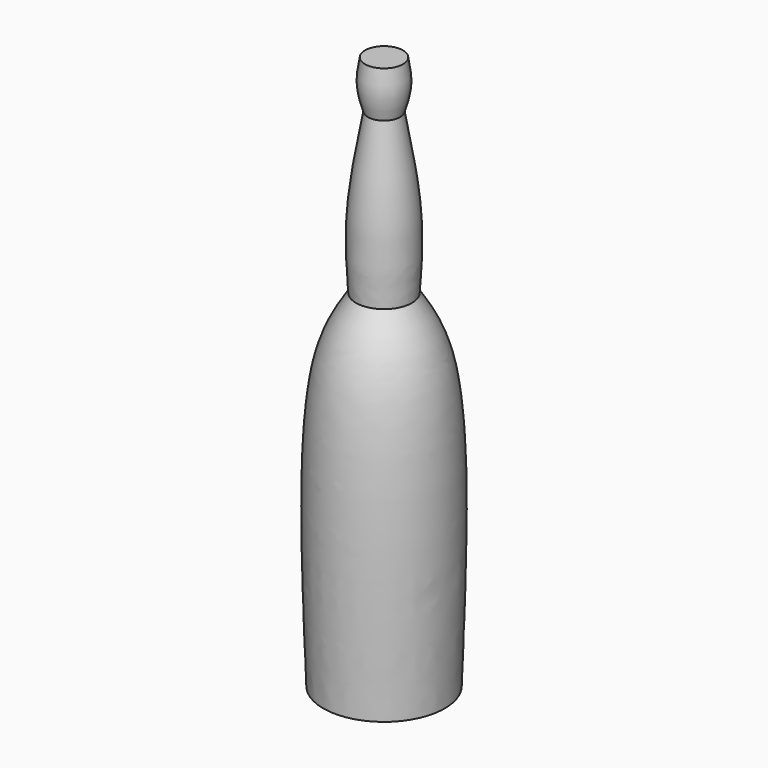
from build123d import *


with BuildPart() as f1:
    # F0 (on Front) → F1 (revolve)
    with BuildSketch(Plane.XZ):
        with BuildLine():
            Line((0, 80.0163449237), (-5.6374586279, 80.0163449237))
            add(Edge.make_bspline(
                [(-5.6374586279, 80.0163449237), (-6.0733098722, 77.6736170043), (-6.9455218679, 72.9421484634), (-5.5259929545, 68.2417160674), (-4.8102862202, 65.8741606021)],
                knots=[0, 0, 0, 0, 0.4963456841, 1, 1, 1, 1], degree=3))
            add(Edge.make_bspline(
                [(-4.8102862202, 65.8741606021), (-6.5016714734, 56.6209318458), (-9.6697763734, 39.2888667197), (-8.7558797185, 24.9285660321), (-8.3298934624, 18.2349309325)],
                knots=[0, 0, 0, 0, 0.5338791823, 1, 1, 1, 1], degree=3))
            add(Edge.make_bspline(
                [(-8.3298934624, 18.2349309325), (-11.4730957341, 13.4082090514), (-21.0971624019, -1.3705704081), (-19.3100348191, -51.3503806168), (-18.1065797806, -85.00687778)],
                knots=[0, 0, 0, 0, 0.3265981399, 1, 1, 1, 1], degree=3))
            add(Edge.make_bspline(
                [(-18.1065797806, -85.00687778), (-14.5959324359, -85.00687778), (-9.4295925568, -85.00687778), (-2.3839899402, -85.00687778), (0, -85.00687778)],
                knots=[0, 0, 0, 0, 0.423879305, 0.6237893877, 0.6237893877, 0.6237893877, 0.6237893877], degree=3))
            Line((0, -85.00687778), (0, 80.0163449237))
        make_face()
    revolve(axis=Axis((0, 0, -1.7095096409), (0, 0, -1)))


solid = f1.part
